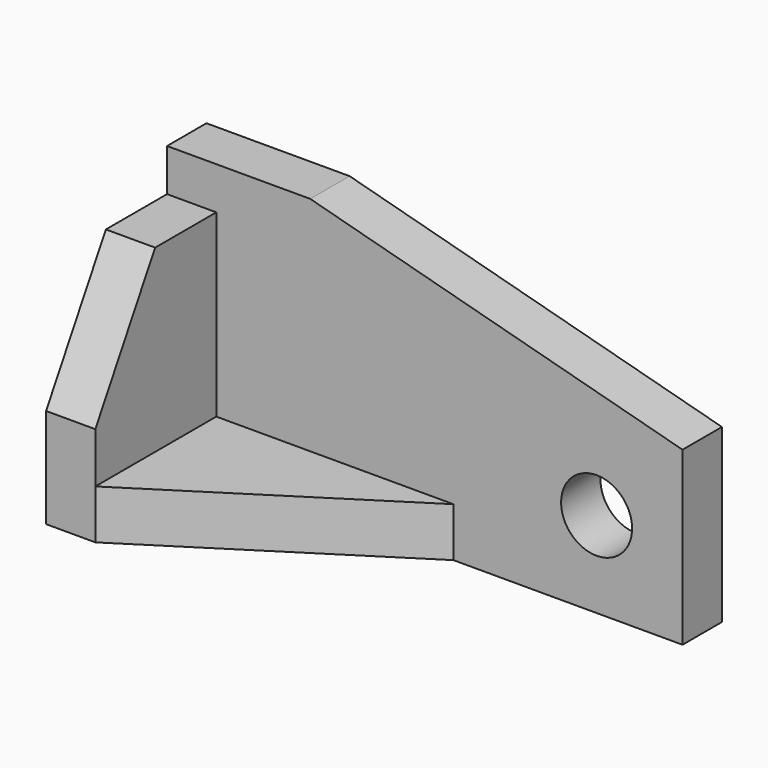
from build123d import *

# Parameters (mm, degrees)
F1_DEPTH = 10.922
F2_W     = 52.578
F2_H     = 10.922
F3_DEPTH = 33.528
F5_DEPTH = 33.528
F7_DEPTH = 25.4
F9_DEPTH = 25.4
F11_D    = 15.748


with BuildPart() as f1:
    # F0 (on Front) → F1 (new body)
    with BuildSketch(Plane.XZ):
        Polygon((-28.253233, 35.011564), (-60.003233, 35.011564), (-60.003233, -25.186436), (54.296767, -25.186436), (54.296767, 12.892358), align=None)
    extrude(amount=F1_DEPTH)

    # F2 (on face) → F3 (join)
    with BuildSketch(Plane.XZ.offset(10.922)):
        with Locations((-22.792233, -19.725436)):
            Rectangle(F2_W, F2_H)
    extrude(amount=F3_DEPTH)

    # F4 (on face) → F5 (join)
    with BuildSketch(Plane.XZ.offset(10.922)):
        Polygon((-49.081233, 25.613564), (-60.003233, 25.613564), (-60.003233, -25.186436), (-49.081233, -25.186436), (-49.081233, -14.264436), align=None)
    extrude(amount=F5_DEPTH)

    # F6 (on face) → F7 (cut)
    with BuildSketch(Plane.YZ.offset(-49.081233)):
        Polygon((-44.45, 25.613564), (-44.45, -3.088436), (-27.878893, 25.613564), align=None)
    extrude(amount=-F7_DEPTH, mode=Mode.SUBTRACT)

    # F8 (on face) → F9 (cut)
    with BuildSketch(Plane.XY.offset(-14.264436)):
        Polygon((3.496767, -10.922), (-49.081233, -44.45), (3.496767, -44.45), align=None)
    extrude(amount=-F9_DEPTH, mode=Mode.SUBTRACT)

    # F11 (through all)
    with Locations(Plane.XZ.offset(10.922)):
        with Locations((35.246767, -6.136436)):
            Hole(F11_D / 2)


solid = f1.part
